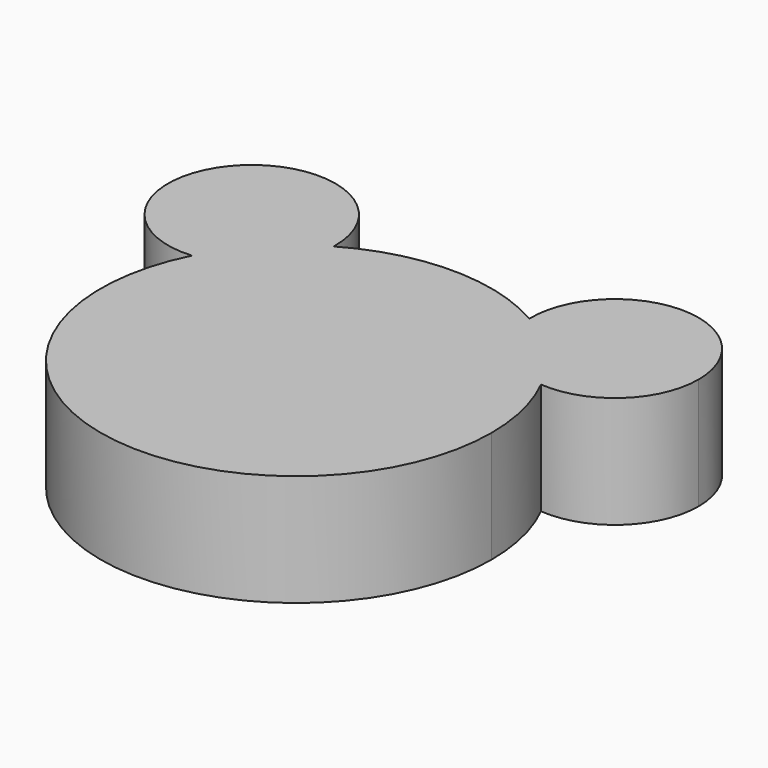
from build123d import *

# Parameters (mm, degrees)
F1_DEPTH = 25.4


with BuildPart() as f1:
    # F0 (on Top) → F1 (new body)
    with BuildSketch(Plane.XY):
        with BuildLine():
            ThreePointArc((-39.6883190985, 20.015989287), (-10.2872910932, -43.2431976381), (44.45, 0))
            ThreePointArc((44.45, 0), (43.2431976381, 10.2872910932), (39.6883190985, 20.015989287))
            ThreePointArc((39.6883190985, 20.015989287), (27.4491866283, 25.9189187465), (22.2572647891, 38.4761830761))
            ThreePointArc((22.2572647891, 38.4761830761), (0, 44.45), (-22.2572647891, 38.4761830761))
            ThreePointArc((-22.2572647891, 38.4761830761), (-27.4491866283, 25.9189187465), (-39.6883190985, 20.015989287))
        make_face()
        with BuildLine():
            ThreePointArc((-22.2572647891, 38.4761830761), (-32.3188571809, 30.517109472), (-39.6883190985, 20.015989287))
            ThreePointArc((-39.6883190985, 20.015989287), (-27.4491866283, 25.9189187465), (-22.2572647891, 38.4761830761))
        make_face()
        with BuildLine():
            ThreePointArc((-22.2501254201, 38.9976799488), (-55.3287998127, 51.8856120865), (-39.6883190985, 20.015989287))
            ThreePointArc((-39.6883190985, 20.015989287), (-32.3188571809, 30.517109472), (-22.2572647891, 38.4761830761))
            ThreePointArc((-22.2572647891, 38.4761830761), (-22.251910346, 38.7369070789), (-22.2501254201, 38.9976799488))
        make_face()
        with BuildLine():
            ThreePointArc((22.2572647891, 38.4761830761), (32.3188571809, 30.517109472), (39.6883190985, 20.015989287))
            ThreePointArc((39.6883190985, 20.015989287), (54.1880575578, 24.9690055562), (60.3501254201, 38.9976799488))
            ThreePointArc((60.3501254201, 38.9976799488), (41.0393525501, 58.0458950229), (22.2572647891, 38.4761830761))
        make_face()
        with BuildLine():
            ThreePointArc((22.2572647891, 38.4761830761), (27.4491866283, 25.9189187465), (39.6883190985, 20.015989287))
            ThreePointArc((39.6883190985, 20.015989287), (32.3188571809, 30.517109472), (22.2572647891, 38.4761830761))
        make_face()
    extrude(amount=F1_DEPTH)


solid = f1.part
